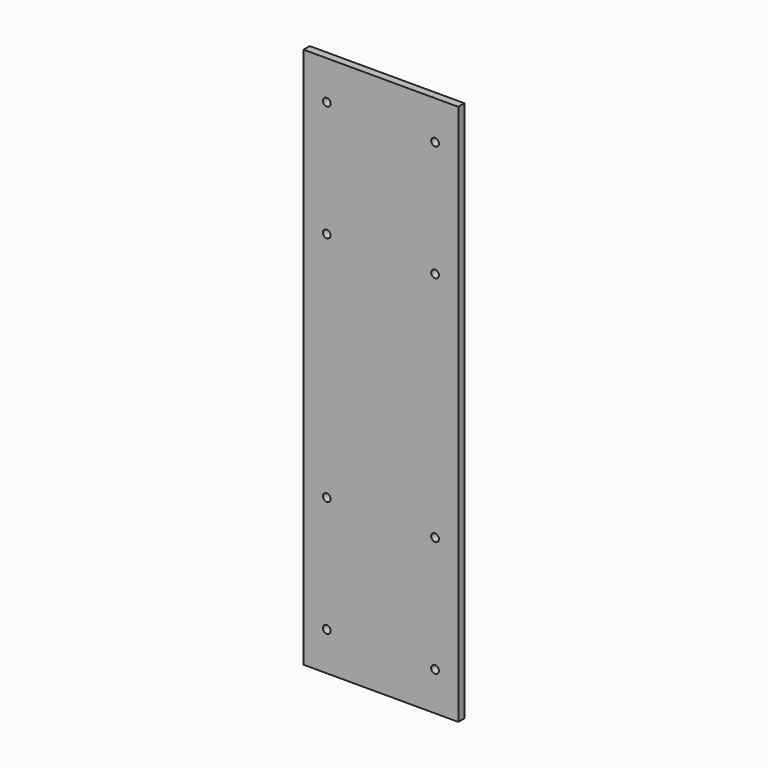
from build123d import *

# Parameters (mm, degrees)
F0_W     = 200
F0_H     = 700
F0_R     = 5
F1_DEPTH = 10


with BuildPart() as f1:
    # F0 (on Front) → F1 (new body)
    with BuildSketch(Plane.XZ):
        Rectangle(F0_W, F0_H)
        with Locations((-70, -300)):
            Circle(F0_R, mode=Mode.SUBTRACT)
        with Locations((-70, -150)):
            Circle(F0_R, mode=Mode.SUBTRACT)
        with Locations((70, -300)):
            Circle(F0_R, mode=Mode.SUBTRACT)
        with Locations((70, -150)):
            Circle(F0_R, mode=Mode.SUBTRACT)
        with Locations((-70, 150)):
            Circle(F0_R, mode=Mode.SUBTRACT)
        with Locations((-70, 300)):
            Circle(F0_R, mode=Mode.SUBTRACT)
        with Locations((70, 150)):
            Circle(F0_R, mode=Mode.SUBTRACT)
        with Locations((70, 300)):
            Circle(F0_R, mode=Mode.SUBTRACT)
    extrude(amount=F1_DEPTH)


solid = f1.part
